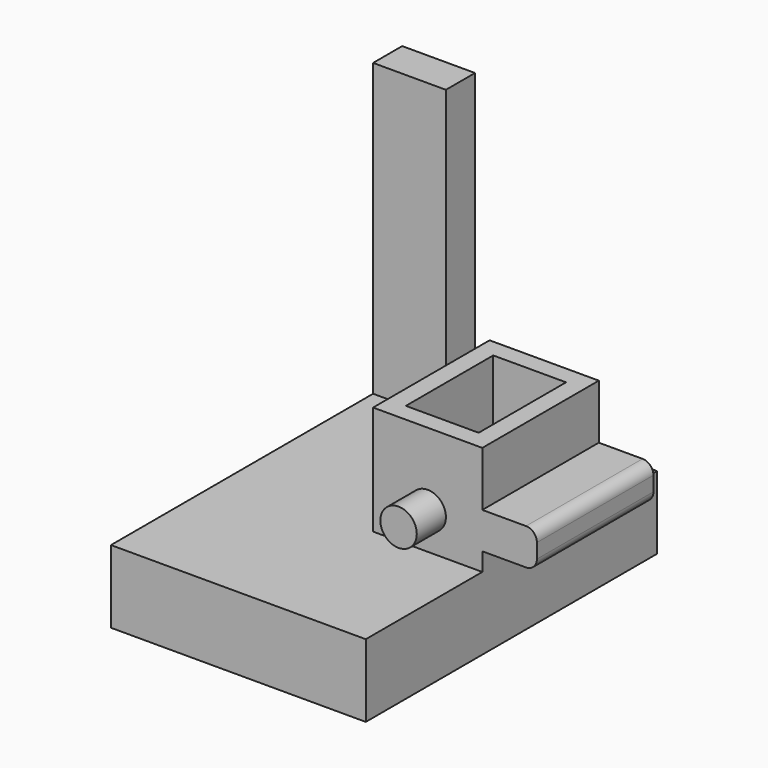
from build123d import *

# Parameters (mm, degrees)
F0_W      = 70
F0_H      = 100
F1_DEPTH  = 20
F2_W      = 20
F2_H      = 10
F3_DEPTH  = 80
F4_W      = 30
F4_H      = 40
F5_DEPTH  = 30
F6_W      = 20
F6_H      = 30
F7_DEPTH  = 30
F8_W      = 40
F8_H      = 10
F9_DEPTH  = 15
F10_R     = 5
F11_DEPTH = 10
F12_R     = 3


with BuildPart() as f1:
    # F0 (on Top) → F1 (new body)
    with BuildSketch(Plane.XY):
        with Locations((35, 50)):
            Rectangle(F0_W, F0_H)
    extrude(amount=F1_DEPTH)

    # F2 (on face) → F3 (join)
    with BuildSketch(Plane.XY.offset(20)):
        with Locations((10, 95)):
            Rectangle(F2_W, F2_H)
    extrude(amount=F3_DEPTH)

    # F4 (on face) → F5 (join)
    with BuildSketch(Plane.XY.offset(20)):
        with Locations((55, 60)):
            Rectangle(F4_W, F4_H)
    extrude(amount=F5_DEPTH)

    # F6 (on face) → F7 (cut)
    with BuildSketch(Plane.XY.offset(50)):
        with Locations((55, 60)):
            Rectangle(F6_W, F6_H)
    extrude(amount=-F7_DEPTH, mode=Mode.SUBTRACT)

    # F8 (on face) → F9 (join)
    with BuildSketch(Plane.YZ.offset(70)):
        with Locations((60, 30)):
            Rectangle(F8_W, F8_H)
    extrude(amount=F9_DEPTH)

    # F10 (on face) → F11 (join)
    with BuildSketch(Plane.XZ.offset(-40)):
        with Locations((55, 30)):
            Circle(F10_R)
    extrude(amount=F11_DEPTH)

    # F12
    f12_edges = [f1.edges().sort_by_distance(p)[0] for p in [
        (85, 60, 35),
        (85, 60, 25),
    ]]
    fillet(f12_edges, radius=F12_R)


solid = f1.part
